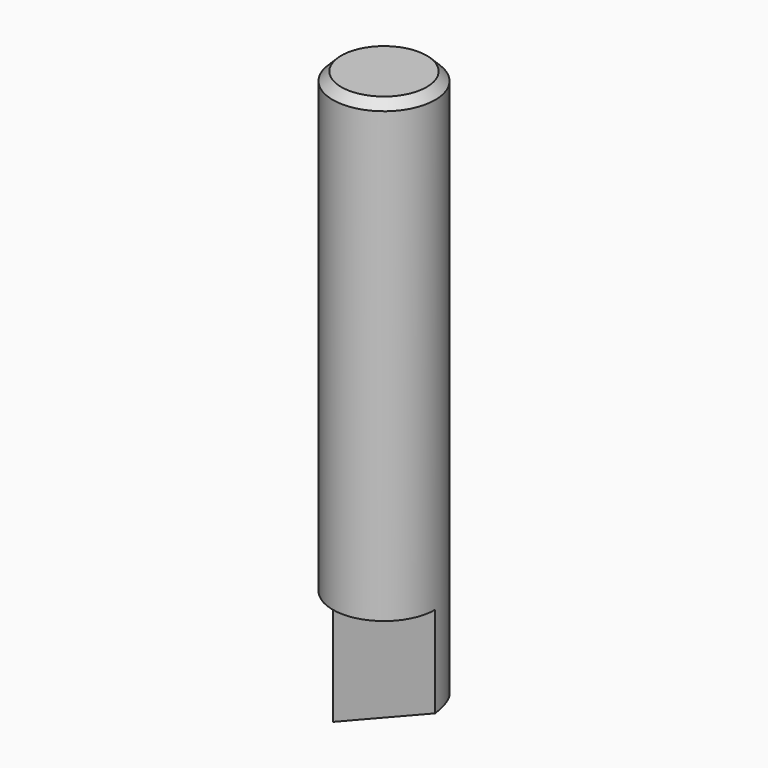
from build123d import *

# Parameters (mm, degrees)
F0_R          = 3
F1_DEPTH      = 35
F2_SIZE       = 0.5
F3_W          = 14.1636701301
F3_H          = 25.4946053028
F4_DEPTH      = 25
F4_DEPTH_BACK = 25
F6_DEPTH      = 25
F6_TAPER      = -8


with BuildPart() as f1:
    # F0 (on Top) → F1 (new body)
    with BuildSketch(Plane.XY):
        Circle(F0_R)
    extrude(amount=F1_DEPTH)

    # F2
    f2_edges = [f1.edges().sort_by_distance(p)[0] for p in [
        (-3, 0, 35),
    ]]
    chamfer(f2_edges, length=F2_SIZE)

    # F3 (on Right) → F4 (cut, two sides)
    with BuildSketch(Plane.YZ) as f4_sk:
        with Locations((-7.081835065, -4.5323744416)):
            Rectangle(F3_W, F3_H)
    extrude(amount=-F4_DEPTH, mode=Mode.SUBTRACT)
    extrude(f4_sk.sketch, amount=F4_DEPTH_BACK, mode=Mode.SUBTRACT)

    # F5 (on Front) → F6 (cut)
    with BuildSketch(Plane.XZ):
        Polygon((30.5935237557, -28.8938842714), (30.5935237557, 13.8803962618), (-26.6276989132, -8.9460639283), (-26.6276989132, -10.4811154306), align=None)
    extrude(amount=-F6_DEPTH, taper=F6_TAPER, mode=Mode.SUBTRACT)


solid = f1.part
